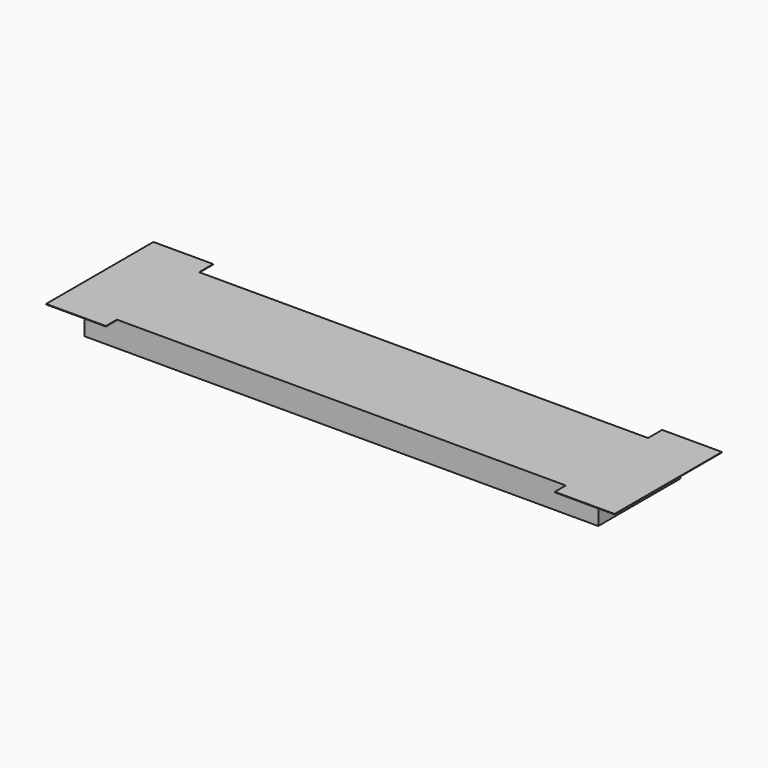
from build123d import *

# Parameters (mm, degrees)
SKETCH058_W             = 3.2
SKETCH058_H             = 3
PAD052_DEPTH            = 1.4
CHAMFER024_SIZE         = 1
SKETCH059_W             = 3.2
SKETCH059_H             = 3
PAD053_DEPTH            = 1.4
CHAMFER022_SIZE         = 1
SKETCH060_W             = 3.2
SKETCH060_H             = 3
PAD054_DEPTH            = 1.4
CHAMFER031_SIZE         = 1
SKETCH061_W             = 3.2
SKETCH061_H             = 3
PAD055_DEPTH            = 1.4
CHAMFER032_SIZE         = 1
SKETCH063_W             = 3.2
SKETCH063_H             = 3
PAD056_DEPTH            = 1.4
CHAMFER025_SIZE         = 1
SKETCH064_W             = 3.2
SKETCH064_H             = 3
PAD057_DEPTH            = 1.4
CHAMFER030_SIZE         = 1
SKETCH065_W             = 3.2
SKETCH065_H             = 3
PAD058_DEPTH            = 1.4
CHAMFER026_SIZE         = 1
SKETCH062_W             = 3.2
SKETCH062_H             = 3
PAD059_DEPTH            = 1.4
CHAMFER028_SIZE         = 1
SKETCH082_W             = 3.2
SKETCH082_H             = 3
PAD075_DEPTH            = 1.2
CHAMFER027_SIZE         = 1
SKETCH083_W             = 2.017963
SKETCH083_H             = 1.017
SKETCH083_W_2           = 1.827715
SKETCH083_H_2           = 1.155216
POCKET007_DEPTH         = 5
SKETCH084_W             = 3.2
SKETCH084_H             = 3
PAD076_DEPTH            = 1.2
CHAMFER029_SIZE         = 0.5
SKETCH085_W             = 1.850896
SKETCH085_H             = 1.017
SKETCH085_W_2           = 1.709498
SKETCH085_H_2           = 1.155216
POCKET008_DEPTH         = 5
BODY075_PLACEMENT_ANGLE = 180
SKETCH086_W             = 2.2
SKETCH086_H             = 1.35
PAD077_DEPTH            = 1.35
BODY076_PLACEMENT_ANGLE = 90
SKETCH087_W             = 2.2
SKETCH087_H             = 1.35
PAD078_DEPTH            = 1.35
BODY077_PLACEMENT_ANGLE = 90
SKETCH088_W             = 3.2
SKETCH088_H             = 3
PAD079_DEPTH            = 1.4
CHAMFER033_SIZE         = 1
SKETCH089_W             = 2.017963
SKETCH089_H             = 1.017
POCKET009_DEPTH         = 5
BODY078_PLACEMENT_ANGLE = 180
SKETCH090_W             = 2.2
SKETCH090_H             = 1.35
PAD080_DEPTH            = 1.35
BODY079_PLACEMENT_ANGLE = 90
SKETCH091_W             = 2.05
SKETCH091_H             = 1.35
PAD081_DEPTH            = 1
BODY080_PLACEMENT_ANGLE = 90
SKETCH092_W             = 2.05
SKETCH092_H             = 1.35
PAD082_DEPTH            = 1
BODY081_PLACEMENT_ANGLE = 90
SKETCH093_W             = 2.1
SKETCH093_H             = 1.35
PAD083_DEPTH            = 0.6
BODY082_PLACEMENT_ANGLE = 90
SKETCH094_W             = 2.1
SKETCH094_H             = 1.35
PAD084_DEPTH            = 0.6
BODY083_PLACEMENT_ANGLE = 90
SKETCH095_W             = 2.1
SKETCH095_H             = 1.35
PAD085_DEPTH            = 0.6
BODY084_PLACEMENT_ANGLE = 90
SKETCH096_W             = 2.1
SKETCH096_H             = 1.35
PAD086_DEPTH            = 0.6
BODY085_PLACEMENT_ANGLE = 90
SKETCH097_W             = 2.1
SKETCH097_H             = 1.35
PAD087_DEPTH            = 0.6
BODY086_PLACEMENT_ANGLE = 90
SKETCH098_W             = 2.1
SKETCH098_H             = 1.35
PAD088_DEPTH            = 0.6
BODY087_PLACEMENT_ANGLE = 90
SKETCH099_W             = 2.1
SKETCH099_H             = 1.35
PAD089_DEPTH            = 0.6
BODY088_PLACEMENT_ANGLE = 90
SKETCH100_W             = 2.1
SKETCH100_H             = 1.35
PAD090_DEPTH            = 0.6
BODY089_PLACEMENT_ANGLE = 90
SKETCH101_W             = 2.1
SKETCH101_H             = 1.35
PAD091_DEPTH            = 0.6
BODY090_PLACEMENT_ANGLE = 90
SKETCH056_W             = 100
SKETCH056_H             = 20
PAD050_DEPTH            = 5
CHAMFER034_SIZE         = 0.35
SKETCH102_R             = 0.95
PAD092_DEPTH            = 3
SKETCH103_W             = 11.634558
SKETCH103_H             = 26.106354
PAD093_DEPTH            = 0.1
SKETCH104_W             = 100
SKETCH104_H             = 20
SKETCH104_R             = 0.95
POCKET010_DEPTH         = 0.1
POCKET011_DEPTH         = 0.2


with BuildPart() as obj1:
    # Sketch058 → Pad052 (new body)
    with BuildSketch(Plane.XY):
        Rectangle(SKETCH058_W, SKETCH058_H)
    extrude(amount=PAD052_DEPTH)

    # Chamfer024
    chamfer024_edges = [obj1.edges().sort_by_distance(p)[0] for p in [
        (-1.6, 0, 1.4),
        (1.6, 0, 1.4),
    ]]
    chamfer(chamfer024_edges, length=CHAMFER024_SIZE)


with BuildPart() as obj1_1:
    # Body051 placement: moved
    add(obj1.part.moved(Location((-25.4, 0, 0))))


with BuildPart() as obj2:
    # Sketch059 → Pad053 (new body)
    with BuildSketch(Plane.XY):
        Rectangle(SKETCH059_W, SKETCH059_H)
    extrude(amount=PAD053_DEPTH)

    # Chamfer022
    chamfer022_edges = [obj2.edges().sort_by_distance(p)[0] for p in [
        (-1.6, 0, 1.4),
        (1.6, 0, 1.4),
    ]]
    chamfer(chamfer022_edges, length=CHAMFER022_SIZE)


with BuildPart() as obj2_1:
    # Body052 placement: moved
    add(obj2.part.moved(Location((-21.59, 0, 0))))


with BuildPart() as obj3:
    # Sketch060 → Pad054 (new body)
    with BuildSketch(Plane.XY):
        Rectangle(SKETCH060_W, SKETCH060_H)
    extrude(amount=PAD054_DEPTH)

    # Chamfer031
    chamfer031_edges = [obj3.edges().sort_by_distance(p)[0] for p in [
        (-1.6, 0, 1.4),
        (1.6, 0, 1.4),
    ]]
    chamfer(chamfer031_edges, length=CHAMFER031_SIZE)


with BuildPart() as obj3_1:
    # Body053 placement: moved
    add(obj3.part.moved(Location((-33.02, 0, 0))))


with BuildPart() as obj4:
    # Sketch061 → Pad055 (new body)
    with BuildSketch(Plane.XY):
        Rectangle(SKETCH061_W, SKETCH061_H)
    extrude(amount=PAD055_DEPTH)

    # Chamfer032
    chamfer032_edges = [obj4.edges().sort_by_distance(p)[0] for p in [
        (-1.6, 0, 1.4),
        (1.6, 0, 1.4),
    ]]
    chamfer(chamfer032_edges, length=CHAMFER032_SIZE)


with BuildPart() as obj4_1:
    # Body054 placement: moved
    add(obj4.part.moved(Location((-36.83, 0, 0))))


with BuildPart() as obj5:
    # Sketch063 → Pad056 (new body)
    with BuildSketch(Plane.XY):
        Rectangle(SKETCH063_W, SKETCH063_H)
    extrude(amount=PAD056_DEPTH)

    # Chamfer025
    chamfer025_edges = [obj5.edges().sort_by_distance(p)[0] for p in [
        (-1.6, 0, 1.4),
        (1.6, 0, 1.4),
    ]]
    chamfer(chamfer025_edges, length=CHAMFER025_SIZE)


with BuildPart() as obj5_1:
    # Body055 placement: moved
    add(obj5.part.moved(Location((25.4, 0, 0))))


with BuildPart() as obj6:
    # Sketch064 → Pad057 (new body)
    with BuildSketch(Plane.XY):
        Rectangle(SKETCH064_W, SKETCH064_H)
    extrude(amount=PAD057_DEPTH)

    # Chamfer030
    chamfer030_edges = [obj6.edges().sort_by_distance(p)[0] for p in [
        (-1.6, 0, 1.4),
        (1.6, 0, 1.4),
    ]]
    chamfer(chamfer030_edges, length=CHAMFER030_SIZE)


with BuildPart() as obj6_1:
    # Body056 placement: moved
    add(obj6.part.moved(Location((21.59, 0, 0))))


with BuildPart() as obj7:
    # Sketch065 → Pad058 (new body)
    with BuildSketch(Plane.XY):
        Rectangle(SKETCH065_W, SKETCH065_H)
    extrude(amount=PAD058_DEPTH)

    # Chamfer026
    chamfer026_edges = [obj7.edges().sort_by_distance(p)[0] for p in [
        (-1.6, 0, 1.4),
        (1.6, 0, 1.4),
    ]]
    chamfer(chamfer026_edges, length=CHAMFER026_SIZE)


with BuildPart() as obj7_1:
    # Body057 placement: moved
    add(obj7.part.moved(Location((33.02, 0, 0))))


with BuildPart() as obj8:
    # Sketch062 → Pad059 (new body)
    with BuildSketch(Plane.XY):
        Rectangle(SKETCH062_W, SKETCH062_H)
    extrude(amount=PAD059_DEPTH)

    # Chamfer028
    chamfer028_edges = [obj8.edges().sort_by_distance(p)[0] for p in [
        (-1.6, 0, 1.4),
        (1.6, 0, 1.4),
    ]]
    chamfer(chamfer028_edges, length=CHAMFER028_SIZE)


with BuildPart() as obj8_1:
    # Body058 placement: moved
    add(obj8.part.moved(Location((36.83, 0, 0))))


with BuildPart() as sot024:
    # Sketch082 → Pad075 (new body)
    with BuildSketch(Plane.XY):
        Rectangle(SKETCH082_W, SKETCH082_H)
    extrude(amount=PAD075_DEPTH)

    # Chamfer027
    chamfer027_edges = [sot024.edges().sort_by_distance(p)[0] for p in [
        (-1.6, 0, 1.2),
        (1.6, 0, 1.2),
    ]]
    chamfer(chamfer027_edges, length=CHAMFER027_SIZE)

    # Sketch083 (on Face5 of Chamfer027) → Pocket007 (cut)
    with BuildSketch(Plane.XY.offset(1.2)):
        with Locations((-1.75199, 0)):
            Rectangle(SKETCH083_W, SKETCH083_H)
        with Locations((1.620688, 1.144909)):
            Rectangle(SKETCH083_W_2, SKETCH083_H_2)
        with Locations((1.620688, -1.144909)):
            Rectangle(SKETCH083_W_2, SKETCH083_H_2)
    extrude(amount=-POCKET007_DEPTH, mode=Mode.SUBTRACT)


with BuildPart() as sot024_1:
    # Body074 placement: moved
    add(sot024.part.moved(Location((-10.3251, 0, 0))))


with BuildPart() as sot23_big002:
    # Sketch084 → Pad076 (new body)
    with BuildSketch(Plane.XY):
        Rectangle(SKETCH084_W, SKETCH084_H)
    extrude(amount=PAD076_DEPTH)

    # Chamfer029
    chamfer029_edges = [sot23_big002.edges().sort_by_distance(p)[0] for p in [
        (-1.6, 0, 1.2),
        (1.6, 0, 1.2),
    ]]
    chamfer(chamfer029_edges, length=CHAMFER029_SIZE)

    # Sketch085 (on Face5 of Chamfer029) → Pocket008 (cut)
    with BuildSketch(Plane.XY.offset(1.2)):
        with Locations((-1.851985, 0)):
            Rectangle(SKETCH085_W, SKETCH085_H)
        with Locations((1.75658, 1.133439)):
            Rectangle(SKETCH085_W_2, SKETCH085_H_2)
        with Locations((1.75658, -1.133439)):
            Rectangle(SKETCH085_W_2, SKETCH085_H_2)
    extrude(amount=-POCKET008_DEPTH, mode=Mode.SUBTRACT)


with BuildPart() as sot23_big002_1:
    # Body075 placement: moved
    add(sot23_big002.part.moved(Location((-16.51, 0, 0))).rotate(Axis((-16.51, 0, 0), (0, 0, 1)), BODY075_PLACEMENT_ANGLE))


with BuildPart() as capacitor_1u009:
    # Sketch086 → Pad077 (new body)
    with BuildSketch(Plane.XY):
        Rectangle(SKETCH086_W, SKETCH086_H)
    extrude(amount=PAD077_DEPTH)


with BuildPart() as capacitor_1u009_1:
    # Body076 placement: moved
    add(capacitor_1u009.part.moved(Location((-41.91, 0, 0))).rotate(Axis((-41.91, 0, 0), (0, 0, 1)), BODY076_PLACEMENT_ANGLE))


with BuildPart() as capacitor_1u010:
    # Sketch087 → Pad078 (new body)
    with BuildSketch(Plane.XY):
        Rectangle(SKETCH087_W, SKETCH087_H)
    extrude(amount=PAD078_DEPTH)


with BuildPart() as capacitor_1u010_1:
    # Body077 placement: moved
    add(capacitor_1u010.part.moved(Location((41.91, 0, 0))).rotate(Axis((41.91, 0, 0), (0, 0, 1)), BODY077_PLACEMENT_ANGLE))


with BuildPart() as body078:
    # Sketch088 → Pad079 (new body)
    with BuildSketch(Plane.XY):
        Rectangle(SKETCH088_W, SKETCH088_H)
    extrude(amount=PAD079_DEPTH)

    # Chamfer033
    chamfer033_edges = [body078.edges().sort_by_distance(p)[0] for p in [
        (-1.6, 0, 1.4),
        (1.6, 0, 1.4),
    ]]
    chamfer(chamfer033_edges, length=CHAMFER033_SIZE)

    # Sketch089 (on Face5 of Chamfer033) → Pocket009 (cut)
    with BuildSketch(Plane.XY.offset(1.4)):
        with Locations((-1.75199, 0)):
            Rectangle(SKETCH089_W, SKETCH089_H)
    extrude(amount=-POCKET009_DEPTH, mode=Mode.SUBTRACT)


with BuildPart() as body078_1:
    # Body078 placement: moved
    add(body078.part.moved(Location((6.99, 0, 0))).rotate(Axis((6.99, 0, 0), (0, 0, 1)), BODY078_PLACEMENT_ANGLE))


with BuildPart() as capacitor_1u011:
    # Sketch090 → Pad080 (new body)
    with BuildSketch(Plane.XY):
        Rectangle(SKETCH090_W, SKETCH090_H)
    extrude(amount=PAD080_DEPTH)


with BuildPart() as capacitor_1u011_1:
    # Body079 placement: moved
    add(capacitor_1u011.part.moved(Location((-1.91, 0, 0))).rotate(Axis((-1.91, 0, 0), (0, 0, 1)), BODY079_PLACEMENT_ANGLE))


with BuildPart() as capacitor_100n006:
    # Sketch091 → Pad081 (new body)
    with BuildSketch(Plane.XY):
        Rectangle(SKETCH091_W, SKETCH091_H)
    extrude(amount=PAD081_DEPTH)


with BuildPart() as capacitor_100n006_1:
    # Body080 placement: moved
    add(capacitor_100n006.part.moved(Location((-7.62, 0, 0))).rotate(Axis((-7.62, 0, 0), (0, 0, 1)), BODY080_PLACEMENT_ANGLE))


with BuildPart() as capacitor_100n007:
    # Sketch092 → Pad082 (new body)
    with BuildSketch(Plane.XY):
        Rectangle(SKETCH092_W, SKETCH092_H)
    extrude(amount=PAD082_DEPTH)


with BuildPart() as capacitor_100n007_1:
    # Body081 placement: moved
    add(capacitor_100n007.part.moved(Location((3.81, 0, 0))).rotate(Axis((3.81, 0, 0), (0, 0, 1)), BODY081_PLACEMENT_ANGLE))


with BuildPart() as resistor_10k027:
    # Sketch093 → Pad083 (new body)
    with BuildSketch(Plane.XY):
        Rectangle(SKETCH093_W, SKETCH093_H)
    extrude(amount=PAD083_DEPTH)


with BuildPart() as resistor_10k027_1:
    # Body082 placement: moved
    add(resistor_10k027.part.moved(Location((-28.26, 0, 0))).rotate(Axis((-28.26, 0, 0), (0, 0, 1)), BODY082_PLACEMENT_ANGLE))


with BuildPart() as resistor_10k028:
    # Sketch094 → Pad084 (new body)
    with BuildSketch(Plane.XY):
        Rectangle(SKETCH094_W, SKETCH094_H)
    extrude(amount=PAD084_DEPTH)


with BuildPart() as resistor_10k028_1:
    # Body083 placement: moved
    add(resistor_10k028.part.moved(Location((-30.16, 0, 0))).rotate(Axis((-30.16, 0, 0), (0, 0, 1)), BODY083_PLACEMENT_ANGLE))


with BuildPart() as resistor_10k029:
    # Sketch095 → Pad085 (new body)
    with BuildSketch(Plane.XY):
        Rectangle(SKETCH095_W, SKETCH095_H)
    extrude(amount=PAD085_DEPTH)


with BuildPart() as resistor_10k029_1:
    # Body084 placement: moved
    add(resistor_10k029.part.moved(Location((30.16, 0, 0))).rotate(Axis((30.16, 0, 0), (0, 0, 1)), BODY084_PLACEMENT_ANGLE))


with BuildPart() as resistor_10k030:
    # Sketch096 → Pad086 (new body)
    with BuildSketch(Plane.XY):
        Rectangle(SKETCH096_W, SKETCH096_H)
    extrude(amount=PAD086_DEPTH)


with BuildPart() as resistor_10k030_1:
    # Body085 placement: moved
    add(resistor_10k030.part.moved(Location((28.26, 0, 0))).rotate(Axis((28.26, 0, 0), (0, 0, 1)), BODY085_PLACEMENT_ANGLE))


with BuildPart() as resistor_10k031:
    # Sketch097 → Pad087 (new body)
    with BuildSketch(Plane.XY):
        Rectangle(SKETCH097_W, SKETCH097_H)
    extrude(amount=PAD087_DEPTH)


with BuildPart() as resistor_10k031_1:
    # Body086 placement: moved
    add(resistor_10k031.part.rotate(Axis((0, 0, 0), (0, 0, 1)), BODY086_PLACEMENT_ANGLE))


with BuildPart() as resistor_10k032:
    # Sketch098 → Pad088 (new body)
    with BuildSketch(Plane.XY):
        Rectangle(SKETCH098_W, SKETCH098_H)
    extrude(amount=PAD088_DEPTH)


with BuildPart() as resistor_10k032_1:
    # Body087 placement: moved
    add(resistor_10k032.part.moved(Location((1.91, 0, 0))).rotate(Axis((1.91, 0, 0), (0, 0, 1)), BODY087_PLACEMENT_ANGLE))


with BuildPart() as resistor_10k033:
    # Sketch099 → Pad089 (new body)
    with BuildSketch(Plane.XY):
        Rectangle(SKETCH099_W, SKETCH099_H)
    extrude(amount=PAD089_DEPTH)


with BuildPart() as resistor_10k033_1:
    # Body088 placement: moved
    add(resistor_10k033.part.moved(Location((-3.81, 0, 0))).rotate(Axis((-3.81, 0, 0), (0, 0, 1)), BODY088_PLACEMENT_ANGLE))


with BuildPart() as resistor_10k034:
    # Sketch100 → Pad090 (new body)
    with BuildSketch(Plane.XY):
        Rectangle(SKETCH100_W, SKETCH100_H)
    extrude(amount=PAD090_DEPTH)


with BuildPart() as resistor_10k034_1:
    # Body089 placement: moved
    add(resistor_10k034.part.moved(Location((-5.71, 0, 0))).rotate(Axis((-5.71, 0, 0), (0, 0, 1)), BODY089_PLACEMENT_ANGLE))


with BuildPart() as resistor_10k035:
    # Sketch101 → Pad091 (new body)
    with BuildSketch(Plane.XY):
        Rectangle(SKETCH101_W, SKETCH101_H)
    extrude(amount=PAD091_DEPTH)


with BuildPart() as resistor_10k035_1:
    # Body090 placement: moved
    add(resistor_10k035.part.moved(Location((10.16, 0, 0))).rotate(Axis((10.16, 0, 0), (0, 0, 1)), BODY090_PLACEMENT_ANGLE))


with BuildPart() as body025:
    # Sketch056 → Pad050 (new body)
    with BuildSketch(Plane.XY):
        with Locations((0, 5.484764)):
            Rectangle(SKETCH056_W, SKETCH056_H)
    extrude(amount=PAD050_DEPTH)

    # Boolean: cut obj1, obj2, obj3, obj4, obj5, obj6, obj7, obj8, Sot024, Sot23-big002, Capacitor 1u009, Capacitor 1u010, Body078, Capacitor 1u011, Capacitor 100n006, Capacitor 100n007, Resistor 10k027, Resistor 10k028, Resistor 10k029, Resistor 10k030, Resistor 10k031, Resistor 10k032, Resistor 10k033, Resistor 10k034, Resistor 10k035
    add(obj1_1.part, mode=Mode.SUBTRACT)
    add(obj2_1.part, mode=Mode.SUBTRACT)
    add(obj3_1.part, mode=Mode.SUBTRACT)
    add(obj4_1.part, mode=Mode.SUBTRACT)
    add(obj5_1.part, mode=Mode.SUBTRACT)
    add(obj6_1.part, mode=Mode.SUBTRACT)
    add(obj7_1.part, mode=Mode.SUBTRACT)
    add(obj8_1.part, mode=Mode.SUBTRACT)
    add(sot024_1.part, mode=Mode.SUBTRACT)
    add(sot23_big002_1.part, mode=Mode.SUBTRACT)
    add(capacitor_1u009_1.part, mode=Mode.SUBTRACT)
    add(capacitor_1u010_1.part, mode=Mode.SUBTRACT)
    add(body078_1.part, mode=Mode.SUBTRACT)
    add(capacitor_1u011_1.part, mode=Mode.SUBTRACT)
    add(capacitor_100n006_1.part, mode=Mode.SUBTRACT)
    add(capacitor_100n007_1.part, mode=Mode.SUBTRACT)
    add(resistor_10k027_1.part, mode=Mode.SUBTRACT)
    add(resistor_10k028_1.part, mode=Mode.SUBTRACT)
    add(resistor_10k029_1.part, mode=Mode.SUBTRACT)
    add(resistor_10k030_1.part, mode=Mode.SUBTRACT)
    add(resistor_10k031_1.part, mode=Mode.SUBTRACT)
    add(resistor_10k032_1.part, mode=Mode.SUBTRACT)
    add(resistor_10k033_1.part, mode=Mode.SUBTRACT)
    add(resistor_10k034_1.part, mode=Mode.SUBTRACT)
    add(resistor_10k035_1.part, mode=Mode.SUBTRACT)

    # Chamfer034
    chamfer034_edges = [body025.edges().sort_by_distance(p)[0] for p in [
        (-7.62, -1.025, 0),
        (-7.62, 1.025, 0),
        (-5.71, 1.05, 0),
        (-5.71, -1.05, 0),
        (-3.81, 1.05, 0),
        (-3.81, -1.05, 0),
        (-1.91, -1.1, 0),
        (-1.91, 1.1, 0),
        (0, 1.05, 0),
        (0, -1.05, 0),
        (1.91, -1.05, 0),
        (1.91, 1.05, 0),
        (3.81, 1.025, 0),
        (3.81, -1.025, 0),
        (10.16, 1.05, 0),
        (10.16, -1.05, 0),
        (-28.26, 1.05, 0),
        (-28.26, -1.05, 0),
        (-30.16, -1.05, 0),
        (-30.16, 1.05, 0),
        (-41.91, 1.1, 0),
        (-41.91, -1.1, 0),
        (41.91, 1.1, 0),
        (41.91, -1.1, 0),
        (30.16, 1.05, 0),
        (30.16, -1.05, 0),
        (28.26, -1.05, 0),
        (28.26, 1.05, 0),
    ]]
    chamfer(chamfer034_edges, length=CHAMFER034_SIZE)

    # Sketch102 (on Face1 of Chamfer034) → Pad092 (join)
    with BuildSketch(Plane(origin=(0, 0, 0), x_dir=(1, 0, 0), z_dir=(0, 0, -1))):
        with Locations((-40.005, -3.42)):
            Circle(SKETCH102_R)
        with Locations((-13.335, -3.42)):
            Circle(SKETCH102_R)
        with Locations((13.335, -3.42)):
            Circle(SKETCH102_R)
        with Locations((40.005, -3.42)):
            Circle(SKETCH102_R)
    extrude(amount=PAD092_DEPTH)

    # Sketch103 (on Face5 of Pad092) → Pad093 (join)
    with BuildSketch(Plane.XY.offset(5)):
        with Locations((49.502186, 5.861513)):
            Rectangle(SKETCH103_W, SKETCH103_H)
        with Locations((-49.502186, 5.861513)):
            Rectangle(SKETCH103_W, SKETCH103_H)
    extrude(amount=-PAD093_DEPTH)

    # Sketch104 (on Face1 of Pad093) → Pocket010 (cut)
    with BuildSketch(Plane(origin=(0, 0, 0), x_dir=(1, 0, 0), z_dir=(0, 0, -1))):
        with Locations((0, -5.484764)):
            Rectangle(SKETCH104_W, SKETCH104_H)
        with Locations((-40.005, -3.42)):
            Circle(SKETCH104_R, mode=Mode.SUBTRACT)
        with Locations((-13.335, -3.42)):
            Circle(SKETCH104_R, mode=Mode.SUBTRACT)
        with Locations((13.335, -3.42)):
            Circle(SKETCH104_R, mode=Mode.SUBTRACT)
        with Locations((40.005, -3.42)):
            Circle(SKETCH104_R, mode=Mode.SUBTRACT)
    extrude(amount=-POCKET010_DEPTH, mode=Mode.SUBTRACT)

    # Sketch105 (on Face9 of Pocket010) → Pocket011 (cut)
    with BuildSketch(Plane(origin=(0, 0, 0.1), x_dir=(1, 0, 0), z_dir=(0, 0, -1))):
        with BuildLine():
            ThreePointArc((-43.5, 2), (-45.5, 0), (-43.5, -2))
            Line((-43.5, -2), (43.5, -2))
            ThreePointArc((43.5, -2), (45.5, 0), (43.5, 2))
            Line((-43.5, 2), (43.5, 2))
        make_face()
    extrude(amount=-POCKET011_DEPTH, mode=Mode.SUBTRACT)


solid = body025.part
